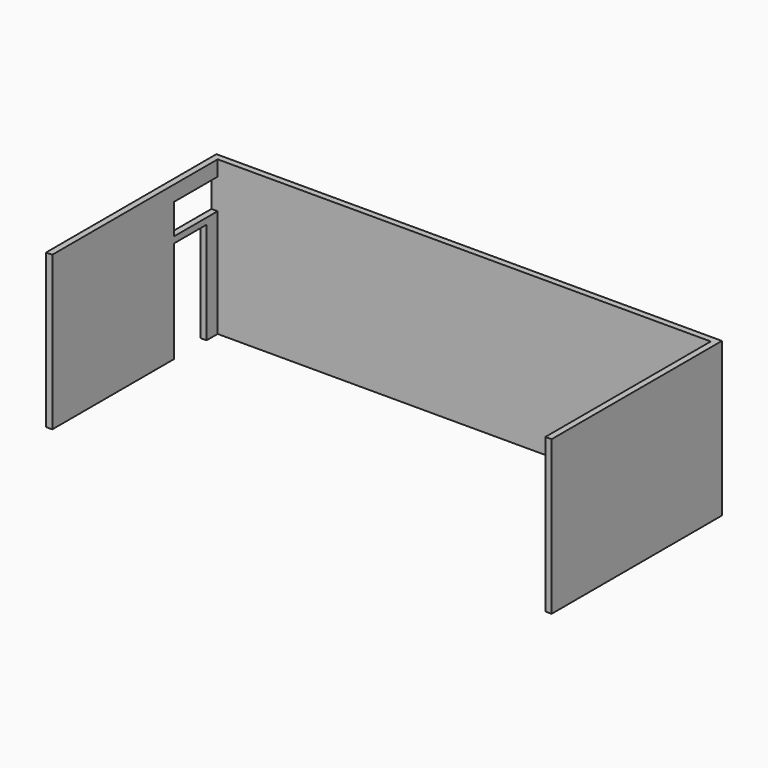
from build123d import *

# Parameters (mm, degrees)
F1_W     = 10356.05752
F1_H     = 4488.65752
F1_W_2   = 10102.05752
F1_H_2   = 4234.65752
F2_DEPTH = 3149.6
F3_W     = 839.7875
F3_H     = 2086.76875
F4_DEPTH = 127.001
F5_W     = 1123.95
F5_H     = 457.20254
F6_DEPTH = 127.001
F7_DEPTH = 127
F8_DEPTH = 139.7
F9_DEPTH = 25.4


with BuildPart() as f2:
    # F1 (on face) → F2 (new body)
    with BuildSketch(Plane.XY):
        with Locations((5051.02876, 2117.32876)):
            Rectangle(F1_W, F1_H)
        with Locations((5051.02876, 2117.32876)):
            Rectangle(F1_W_2, F1_H_2, mode=Mode.SUBTRACT)
    extrude(amount=F2_DEPTH)

    # F3 (on face) → F4 (cut, through all)
    with BuildSketch(Plane.YZ):
        with Locations((3530.60127, 1043.384375)):
            Rectangle(F3_W, F3_H)
    extrude(amount=-F4_DEPTH, mode=Mode.SUBTRACT)

    # F5 (on face) → F6 (cut, through all)
    with BuildSketch(Plane.YZ):
        with Locations((3672.68252, 2442.37002)):
            Rectangle(F5_W, F5_H)
    extrude(amount=-F6_DEPTH, mode=Mode.SUBTRACT)

    # F7 (cut): a face of the model
    f7_faces = [f2.faces().sort_by_distance(p)[0] for p in [
        (5051.02876, -127, 1574.8),
    ]]
    extrude(f7_faces, amount=-F7_DEPTH, mode=Mode.SUBTRACT)

    # F8 (cut): a face of the model
    f8_faces = [f2.faces().sort_by_distance(p)[0] for p in [
        (-63.5, 3672.68252, 2670.97129),
    ]]
    extrude(f8_faces, amount=-F8_DEPTH, mode=Mode.SUBTRACT)

    # F9 (cut): a face of the model
    f9_faces = [f2.faces().sort_by_distance(p)[0] for p in [
        (-63.5, 3672.68252, 2810.67129),
    ]]
    extrude(f9_faces, amount=-F9_DEPTH, mode=Mode.SUBTRACT)


solid = f2.part
